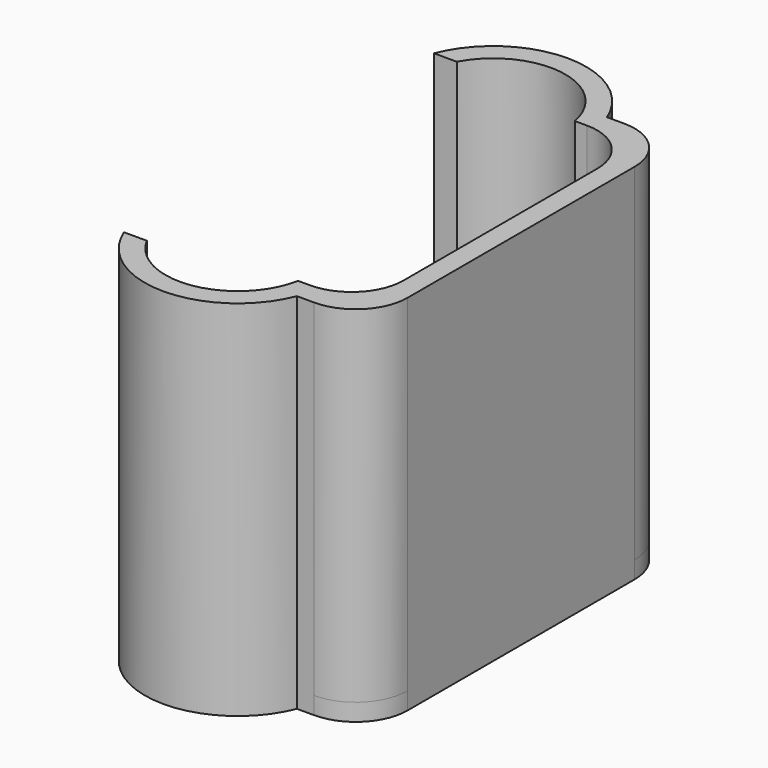
from build123d import *

# Parameters (mm, degrees)
F1_DEPTH = 10
F2_R     = 1.5
F4_DEPTH = 0.5
F5_ANGLE = -90


with BuildPart() as f1:
    # F0 (on Front) → F1 (new body)
    with BuildSketch(Plane.XZ):
        with BuildLine():
            Line((-2, -5.6), (0, -5.6))
            Line((0, -5.6), (0, 5.6))
            Line((0, 5.6), (-2, 5.6))
            ThreePointArc((-2, 5.6), (-4.5, 7.3), (-7, 5.6))
            Line((-7, 5.6), (-6.339597, 5.6))
            ThreePointArc((-6.339597, 5.6), (-4.181785, 6.675612), (-2.448172, 5))
            Line((-2.448172, 5), (-0.6, 5))
            Line((-0.6, 5), (-0.6, -5))
            Line((-0.6, -5), (-2.448172, -5))
            ThreePointArc((-2.448172, -5), (-4.181785, -6.675612), (-6.339597, -5.6))
            Line((-6.339597, -5.6), (-7, -5.6))
            ThreePointArc((-7, -5.6), (-4.5, -7.3), (-2, -5.6))
        make_face()
    extrude(amount=F1_DEPTH)

    # F2
    f2_edges = [f1.edges().sort_by_distance(p)[0] for p in [
        (0, -5, 5.6),
        (0, -5, -5.6),
        (-0.6, -5, 5),
        (-0.6, -5, -5),
    ]]
    fillet(f2_edges, radius=F2_R)

    # F3 (on face) → F4 (join)
    with BuildSketch(Plane.XZ.offset(10)):
        with BuildLine():
            Line((-6.339597, 5.6), (-7, 5.6))
            Line((-7, 5.6), (-7, -5.6))
            Line((-7, -5.6), (-6.339597, -5.6))
            ThreePointArc((-6.339597, -5.6), (-4.181785, -6.675612), (-2.448172, -5))
            Line((-2.448172, -5), (-2.1, -5))
            ThreePointArc((-2.1, -5), (-1.03934, -4.56066), (-0.6, -3.5))
            Line((-0.6, -3.5), (-0.6, 3.5))
            ThreePointArc((-0.6, 3.5), (-1.03934, 4.56066), (-2.1, 5))
            Line((-2.1, 5), (-2.448172, 5))
            ThreePointArc((-2.448172, 5), (-4.181785, 6.675612), (-6.339597, 5.6))
        make_face()
        with BuildLine():
            Line((-1.5, 5.6), (-2, 5.6))
            ThreePointArc((-2, 5.6), (-4.5, 7.3), (-7, 5.6))
            Line((-7, 5.6), (-6.339597, 5.6))
            ThreePointArc((-6.339597, 5.6), (-4.181785, 6.675612), (-2.448172, 5))
            Line((-2.448172, 5), (-2.1, 5))
            ThreePointArc((-2.1, 5), (-1.03934, 4.56066), (-0.6, 3.5))
            Line((-0.6, 3.5), (-0.6, -3.5))
            ThreePointArc((-0.6, -3.5), (-1.03934, -4.56066), (-2.1, -5))
            Line((-2.1, -5), (-2.448172, -5))
            ThreePointArc((-2.448172, -5), (-4.181785, -6.675612), (-6.339597, -5.6))
            Line((-6.339597, -5.6), (-7, -5.6))
            ThreePointArc((-7, -5.6), (-4.5, -7.3), (-2, -5.6))
            Line((-2, -5.6), (-1.5, -5.6))
            ThreePointArc((-1.5, -5.6), (-0.43934, -5.16066), (0, -4.1))
            Line((0, -4.1), (0, 4.1))
            ThreePointArc((0, 4.1), (-0.43934, 5.16066), (-1.5, 5.6))
        make_face()
    extrude(amount=F4_DEPTH)


with BuildPart() as f1_1:
    # F5: moved
    add(f1.part.rotate(Axis((-1.75, -10.5, 5.6), (-1, 0, 0)), F5_ANGLE))


solid = f1_1.part
